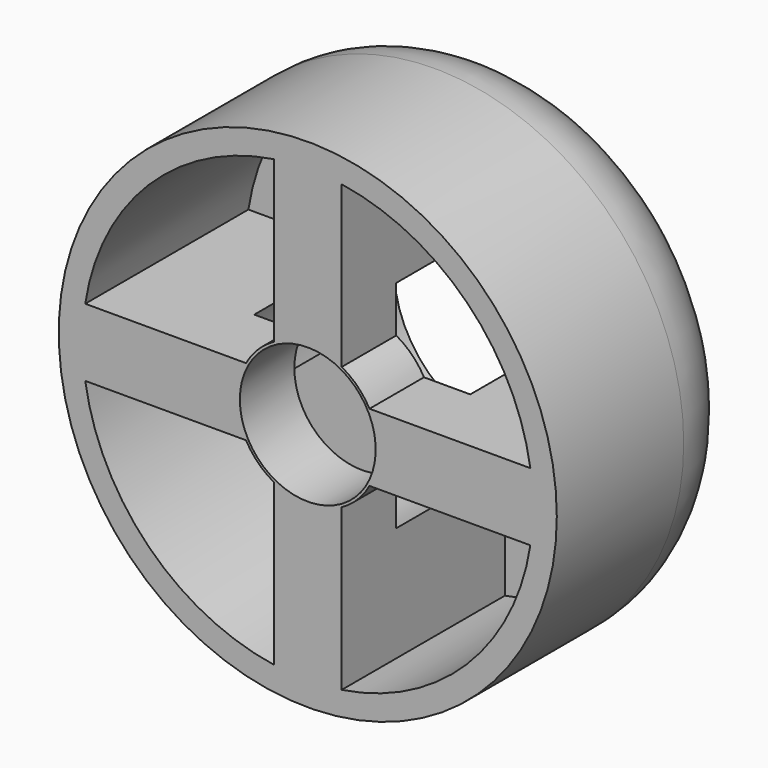
from build123d import *

# Parameters (mm, degrees)
F0_R           = 8.73125
F0_R_2         = 7.9375
F0_R_3         = 2.38125
F1_DEPTH       = 8.7376
F3_DEPTH       = 7.1501
F4_D           = 4.7625
F4_CBORE_D     = 7.9375
F4_CBORE_DEPTH = 6.35
F5_R           = 3.175


with BuildPart() as f1:
    # F0 (on Front) → F1 (new body)
    with BuildSketch(Plane.XZ):
        Circle(F0_R)
        Circle(F0_R_2, mode=Mode.SUBTRACT)
        Circle(F0_R_2)
        Circle(F0_R_3, mode=Mode.SUBTRACT)
        Circle(F0_R_3)
    extrude(amount=F1_DEPTH)

    # F2 (on face) → F3 (cut)
    with BuildSketch(Plane.XZ.offset(8.7376)):
        with BuildLine():
            ThreePointArc((1.190381, 2.163987), (1.746403, 1.746403), (2.163987, 1.190381))
            Line((2.163987, 1.190381), (7.802441, 1.190381))
            ThreePointArc((7.802441, 1.190381), (5.580999, 5.580999), (1.190381, 7.802441))
            Line((1.190381, 7.802441), (1.190381, 2.163987))
        make_face()
        with BuildLine():
            Line((-1.190381, 2.163987), (-1.190381, 7.802441))
            ThreePointArc((-1.190381, 7.802441), (-5.580999, 5.580999), (-7.802441, 1.190381))
            Line((-7.802441, 1.190381), (-2.163987, 1.190381))
            ThreePointArc((-2.163987, 1.190381), (-1.746403, 1.746403), (-1.190381, 2.163987))
        make_face()
        with BuildLine():
            Line((-2.163987, -1.190381), (-7.802441, -1.190381))
            ThreePointArc((-7.802441, -1.190381), (-5.580999, -5.580999), (-1.190381, -7.802441))
            Line((-1.190381, -7.802441), (-1.190381, -2.163987))
            ThreePointArc((-1.190381, -2.163987), (-1.746403, -1.746403), (-2.163987, -1.190381))
        make_face()
        with BuildLine():
            Line((1.190381, -2.163987), (1.190381, -7.802441))
            ThreePointArc((1.190381, -7.802441), (5.580999, -5.580999), (7.802441, -1.190381))
            Line((7.802441, -1.190381), (2.163987, -1.190381))
            ThreePointArc((2.163987, -1.190381), (1.746403, -1.746403), (1.190381, -2.163987))
        make_face()
    extrude(amount=-F3_DEPTH, mode=Mode.SUBTRACT)

    # F4 (through all)
    with Locations(Plane(origin=(0, 0, 0), x_dir=(1, 0, 0), z_dir=(0, 1, 0))):
        with Locations((0, 0)):
            CounterBoreHole(F4_D / 2, F4_CBORE_D / 2, F4_CBORE_DEPTH)

    # F5
    f5_edges = [f1.edges().sort_by_distance(p)[0] for p in [
        (-8.73125, 0, 0),
    ]]
    fillet(f5_edges, radius=F5_R)


solid = f1.part
